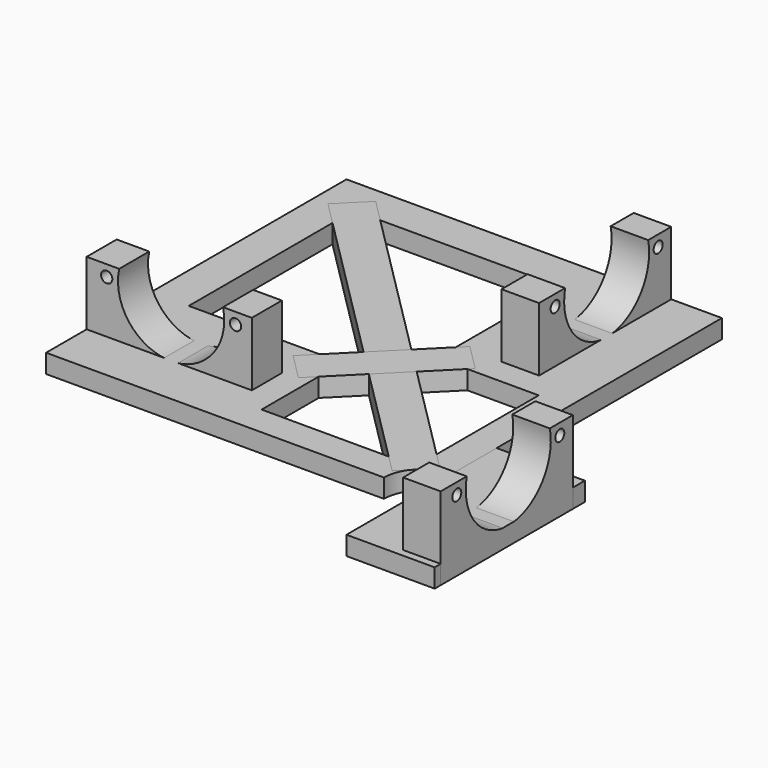
from build123d import *

# Parameters (mm, degrees)
CYLINDER001_R                = 1.5
CYLINDER001_DEPTH            = 10
CYLINDER001_ROLL_ANGLE       = 90
CYLINDER001001_R             = 1.5
CYLINDER001001_DEPTH         = 10
CYLINDER001001_ROLL_ANGLE    = 90
CYLINDER_R                   = 14.15
CYLINDER_DEPTH               = 10
CYLINDER_ROLL_ANGLE          = 90
BOX001_W                     = 44
BOX001_H                     = 10
BOX001_DEPTH                 = 22
CUT002001_PLACEMENT_ANGLE    = 90
BOX002_W                     = 23.5
BOX002_H                     = 50
BOX002_DEPTH                 = 5
CUT002001001_PLACEMENT_ANGLE = 90
BOX004_W                     = 41
BOX004_H                     = 41
BOX004_DEPTH                 = 10
BOX003_W                     = 55
BOX003_H                     = 55
BOX003_DEPTH                 = 10
CYLINDER001002_R             = 10
CYLINDER001002_DEPTH         = 10
BOX_W                        = 100
BOX_H                        = 100
BOX_DEPTH                    = 5
BOX005_W                     = 121
BOX005_H                     = 10
BOX005_DEPTH                 = 5
BOX005_PLACEMENT_ANGLE       = 135.000066
BOX006_W                     = 37
BOX006_H                     = 10
BOX006_DEPTH                 = 5
BOX006_PLACEMENT_ANGLE       = 44.999934


with BuildPart() as cylinder001:
    # Cylinder001 → Cylinder001 (new body)
    with BuildSketch(Plane.XY):
        Circle(CYLINDER001_R)
    extrude(amount=CYLINDER001_DEPTH)


with BuildPart() as cylinder001_1:
    # Cylinder001 roll: moved
    add(cylinder001.part.rotate(Axis((0, 0, 0), (1, 0, 0)), CYLINDER001_ROLL_ANGLE))


with BuildPart() as cylinder001_2:
    # Cylinder001 placement: moved
    add(cylinder001_1.part.moved(Location((5.35, 23.5, 19))))


with BuildPart() as cylinder001001:
    # Cylinder001001 → Cylinder001001 (new body)
    with BuildSketch(Plane.XY):
        Circle(CYLINDER001001_R)
    extrude(amount=CYLINDER001001_DEPTH)


with BuildPart() as cylinder001001_1:
    # Cylinder001001 roll: moved
    add(cylinder001001.part.rotate(Axis((0, 0, 0), (1, 0, 0)), CYLINDER001001_ROLL_ANGLE))


with BuildPart() as cylinder001001_2:
    # Cylinder001001 placement: moved
    add(cylinder001001_1.part.moved(Location((39.65, 23.5, 19))))


with BuildPart() as cylinder:
    # Cylinder → Cylinder (new body)
    with BuildSketch(Plane.XY):
        Circle(CYLINDER_R)
    extrude(amount=CYLINDER_DEPTH)


with BuildPart() as cylinder_1:
    # Cylinder roll: moved
    add(cylinder.part.rotate(Axis((0, 0, 0), (1, 0, 0)), CYLINDER_ROLL_ANGLE))


with BuildPart() as cylinder_2:
    # Cylinder placement: moved
    add(cylinder_1.part.moved(Location((22.5, 23.5, 19))))


with BuildPart() as cut001:
    # Box001 → Box001 (new body)
    with BuildSketch(Plane(origin=(0, 13.5, 0), x_dir=(1, 0, 0), z_dir=(0, 0, 1))):
        with Locations((22, 5)):
            Rectangle(BOX001_W, BOX001_H)
    extrude(amount=BOX001_DEPTH)

    # Cut: cut Cylinder
    add(cylinder_2.part, mode=Mode.SUBTRACT)

    # Cut001: cut Cylinder001001
    add(cylinder001001_2.part, mode=Mode.SUBTRACT)


with BuildPart() as cut002:
    # Cut002 base: copy of Cut001
    add(cut001.part)

    # Cut002: cut Cylinder001
    add(cylinder001_2.part, mode=Mode.SUBTRACT)


with BuildPart() as cut002001:
    # Cut002001 base: copy of Cut001
    add(cut001.part)

    # Cut002001: cut Cylinder001
    add(cylinder001_2.part, mode=Mode.SUBTRACT)


with BuildPart() as cut002001_1:
    # Cut002001 placement: moved
    add(cut002001.part.moved(Location((100, 56, 0))).rotate(Axis((100, 56, 0), (0, 0, 1)), CUT002001_PLACEMENT_ANGLE))


with BuildPart() as box002:
    # Box002 → Box002 (new body)
    with BuildSketch(Plane(origin=(100, -25, 0), x_dir=(1, 0, 0), z_dir=(0, 0, 1))):
        with Locations((11.75, 25)):
            Rectangle(BOX002_W, BOX002_H)
    extrude(amount=BOX002_DEPTH)


with BuildPart() as cut002001001:
    # Cut002001001 base: copy of Cut001
    add(cut001.part)

    # Cut002001001: cut Cylinder001
    add(cylinder001_2.part, mode=Mode.SUBTRACT)


with BuildPart() as cut002001001_1:
    # Cut002001001 placement: moved
    add(cut002001001.part.moved(Location((137, -23, 0))).rotate(Axis((137, -23, 0), (0, 0, 1)), CUT002001001_PLACEMENT_ANGLE))


with BuildPart() as box004:
    # Box004 → Box004 (new body)
    with BuildSketch(Plane(origin=(51, 8, 0), x_dir=(1, 0, 0), z_dir=(0, 0, 1))):
        with Locations((20.5, 20.5)):
            Rectangle(BOX004_W, BOX004_H)
    extrude(amount=BOX004_DEPTH)


with BuildPart() as box003:
    # Box003 → Box003 (new body)
    with BuildSketch(Plane(origin=(10, 35, 0), x_dir=(1, 0, 0), z_dir=(0, 0, 1))):
        with Locations((27.5, 27.5)):
            Rectangle(BOX003_W, BOX003_H)
    extrude(amount=BOX003_DEPTH)


with BuildPart() as cylinder001002:
    # Cylinder001002 → Cylinder001002 (new body)
    with BuildSketch(Plane(origin=(100, 0, 0), x_dir=(1, 0, 0), z_dir=(0, 0, 1))):
        Circle(CYLINDER001002_R)
    extrude(amount=CYLINDER001002_DEPTH)


with BuildPart() as cut002001004:
    # Box → Box (new body)
    with BuildSketch(Plane.XY):
        with Locations((50, 50)):
            Rectangle(BOX_W, BOX_H)
    extrude(amount=BOX_DEPTH)

    # Cut002001002: cut Cylinder001002
    add(cylinder001002.part, mode=Mode.SUBTRACT)

    # Cut002001003: cut Box003
    add(box003.part, mode=Mode.SUBTRACT)

    # Cut002001004: cut Box004
    add(box004.part, mode=Mode.SUBTRACT)


with BuildPart() as box005:
    # Box005 → Box005 (new body)
    with BuildSketch(Plane.XY):
        with Locations((60.5, 5)):
            Rectangle(BOX005_W, BOX005_H)
    extrude(amount=BOX005_DEPTH)


with BuildPart() as box005_1:
    # Box005 placement: moved
    add(box005.part.moved(Location((96.5, 10.5, 0))).rotate(Axis((96.5, 10.5, 0), (0, 0, 1)), BOX005_PLACEMENT_ANGLE))


with BuildPart() as box006:
    # Box006 → Box006 (new body)
    with BuildSketch(Plane.XY):
        with Locations((18.5, 5)):
            Rectangle(BOX006_W, BOX006_H)
    extrude(amount=BOX006_DEPTH)


with BuildPart() as box006_1:
    # Box006 placement: moved
    add(box006.part.moved(Location((48, 24, 0))).rotate(Axis((48, 24, 0), (0, 0, 1)), BOX006_PLACEMENT_ANGLE))


solid = Compound([cut002.part, cut002001_1.part, box002.part, cut002001001_1.part, cut002001004.part, box005_1.part, box006_1.part])
